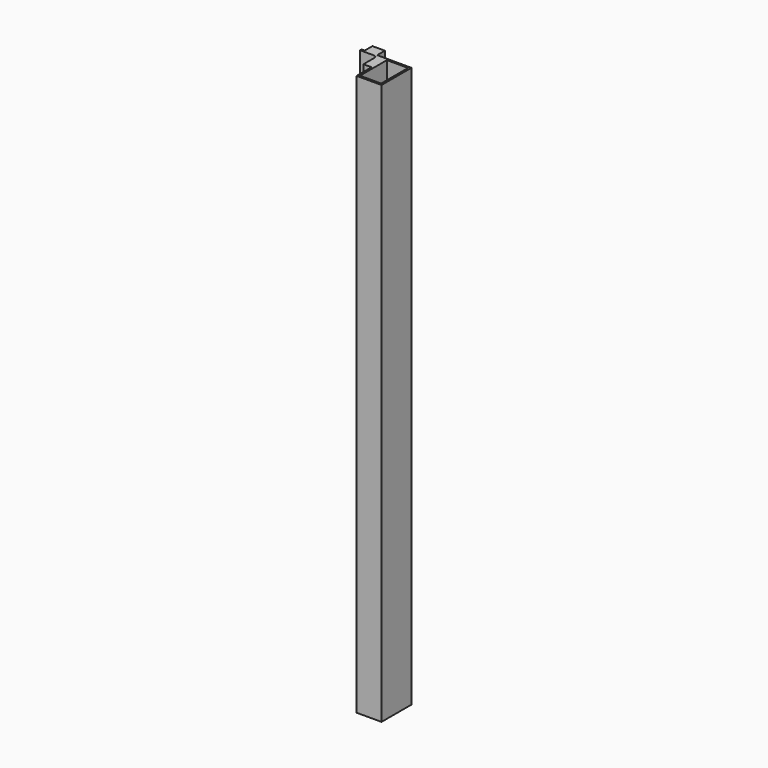
from build123d import *

# Parameters (mm, degrees)
SKETCH_W  = 34
SKETCH_H  = 54
PAD_DEPTH = 900


with BuildPart() as part:
    # Sketch → Pad (new body)
    with BuildSketch(Plane.XY):
        with BuildLine():
            Line((0, 0), (40, 0))
            Line((40, 0), (40, 60))
            Line((40, 60), (-15, 60))
            Line((-15, 75.5), (-15, 60))
            Line((-35, 75.5), (-15, 75.5))
            Line((-35, 60), (-35, 75.5))
            Line((-35, 60), (-40, 60))
            Line((-40, 60), (-40, 57))
            Line((-40, 57), (-18, 57))
            ThreePointArc((-13, 52), (-14.464466, 55.535534), (-18, 57))
            Line((-13, 52), (-13, 30))
            Line((-13, 30), (0, 30))
            Line((0, 30), (0, 0))
        make_face()
        with Locations((20, 30)):
            Rectangle(SKETCH_W, SKETCH_H, mode=Mode.SUBTRACT)
    extrude(amount=PAD_DEPTH)


solid = part.part
